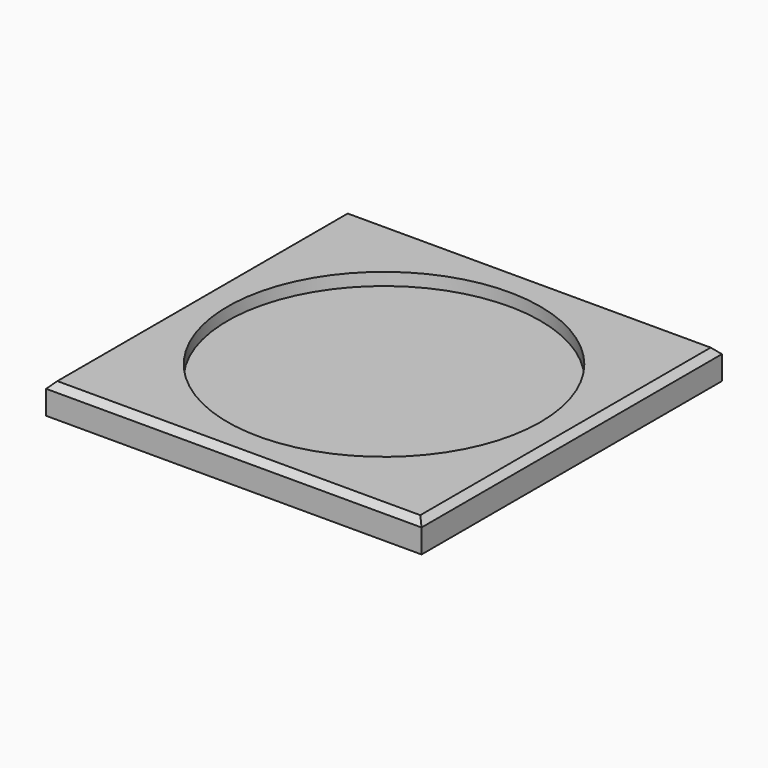
from build123d import *

# Parameters (mm, degrees)
F0_W     = 38.1
F0_H     = 38.1
F1_DEPTH = 3.048
F2_R     = 15.875
F3_DEPTH = 1.27
F5_DEPTH = 38.101
F7_DEPTH = 38.101


with BuildPart() as f1:
    # F0 (on Top) → F1 (new body)
    with BuildSketch(Plane.XY):
        Rectangle(F0_W, F0_H)
    extrude(amount=F1_DEPTH)

    # F2 (on face) → F3 (cut)
    with BuildSketch(Plane.XY.offset(3.048)):
        Circle(F2_R)
    extrude(amount=-F3_DEPTH, mode=Mode.SUBTRACT)

    # F4 (on face) → F5 (cut, through all)
    with BuildSketch(Plane.XZ.offset(19.05)):
        Polygon((-18.415, 3.048), (-19.05, 3.048), (-19.05, 2.413), align=None)
        Polygon((19.05, 3.048), (18.415, 3.048), (19.05, 2.413), align=None)
    extrude(amount=-F5_DEPTH, mode=Mode.SUBTRACT)

    # F6 (on face) → F7 (cut, through all)
    with BuildSketch(Plane(origin=(-19.05, 0, 0), x_dir=(0, -1, 0), z_dir=(-1, 0, 0))):
        Polygon((-18.415, 3.048), (-19.05, 3.048), (-19.05, 2.413), align=None)
        Polygon((18.415, 3.048), (19.05, 2.413), (19.05, 3.048), align=None)
    extrude(amount=-F7_DEPTH, mode=Mode.SUBTRACT)


solid = f1.part
